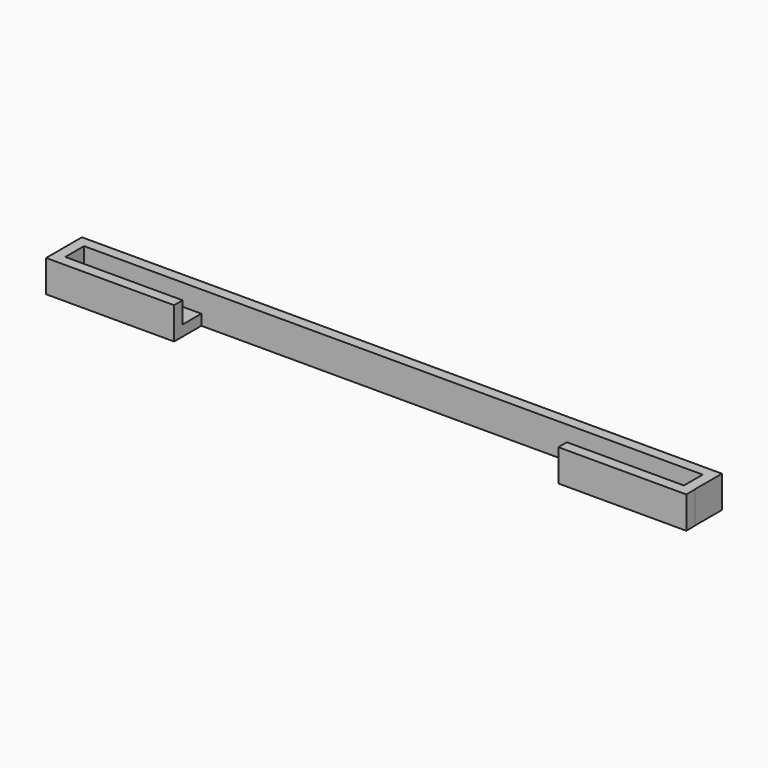
from build123d import *

# Parameters (mm, degrees)
F1_DEPTH = 12.7
F2_DEPTH = 27.94
F3_W     = 152.38668
F3_H     = 38.1
F4_DEPTH = 12.7


with BuildPart() as f1:
    # F0 (on Front) → F1 (new body)
    with BuildSketch(Plane.XZ):
        Polygon((368.3, 19.05), (-368.3, 19.05), (-368.3, -6.35), (-228.6, -6.35), (-228.6, -19.05), (228.6, -19.05), (228.6, -6.35), (368.3, -6.35), align=None)
        Polygon((-368.3, 19.05), (-381, 19.05), (-381, -19.05), (-228.6, -19.05), (-228.6, -6.35), (-368.3, -6.35), align=None)
        Polygon((381, 19.05), (368.3, 19.05), (368.3, -6.35), (228.6, -6.35), (228.6, -19.05), (381, -19.05), align=None)
    extrude(amount=-F1_DEPTH)

    # F0 (on Front) → F2 (join)
    with BuildSketch(Plane.XZ):
        Polygon((-368.3, 19.05), (-381, 19.05), (-381, -19.05), (-228.6, -19.05), (-228.6, -6.35), (-368.3, -6.35), align=None)
        Polygon((381, 19.05), (368.3, 19.05), (368.3, -6.35), (228.6, -6.35), (228.6, -19.05), (381, -19.05), align=None)
    extrude(amount=F2_DEPTH)

    # F3 (on face) → F4 (join)
    with BuildSketch(Plane.XZ.offset(27.94)):
        Polygon((-368.3, 19.05), (-381, 19.05), (-381, -19.05), (-228.6, -19.05), (-228.6, 19.05), align=None)
        Polygon((-368.3, 19.05), (-381, 19.05), (-381, -19.05), (-228.6, -19.05), (-228.6, 19.05), align=None)
        with Locations((305.05722, 0)):
            Rectangle(F3_W, F3_H)
    extrude(amount=F4_DEPTH)


solid = f1.part
